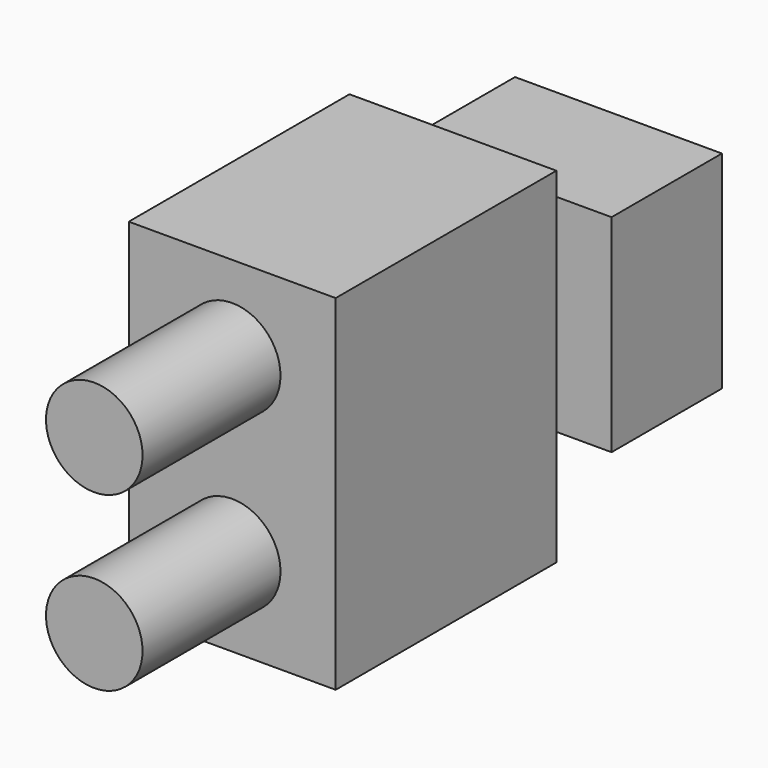
from build123d import *

# Parameters (mm, degrees)
F0_W     = 152.4
F0_H     = 152.4
F1_DEPTH = 101.6
F2_R     = 31.75
F3_DEPTH = 50.8
F4_W     = 152.4
F4_H     = 254
F5_DEPTH = 203.2
F6_R     = 35.56
F7_DEPTH = 127


with BuildPart() as f1:
    # F0 (on Front) → F1 (new body)
    with BuildSketch(Plane.XZ):
        Rectangle(F0_W, F0_H)
    extrude(amount=F1_DEPTH)

    # F2 (on face) → F3 (join)
    with BuildSketch(Plane.XZ.offset(101.6)):
        Circle(F2_R)
    extrude(amount=F3_DEPTH)

    # F4 (on face) → F5 (join)
    with BuildSketch(Plane.XZ.offset(152.4)):
        Rectangle(F4_W, F4_H)
    extrude(amount=F5_DEPTH)

    # F6 (on face) → F7 (join)
    with BuildSketch(Plane.XZ.offset(355.6)):
        with Locations((0, -63.5)):
            Circle(F6_R)
        with Locations((0, 63.5)):
            Circle(F6_R)
    extrude(amount=F7_DEPTH)


solid = f1.part
